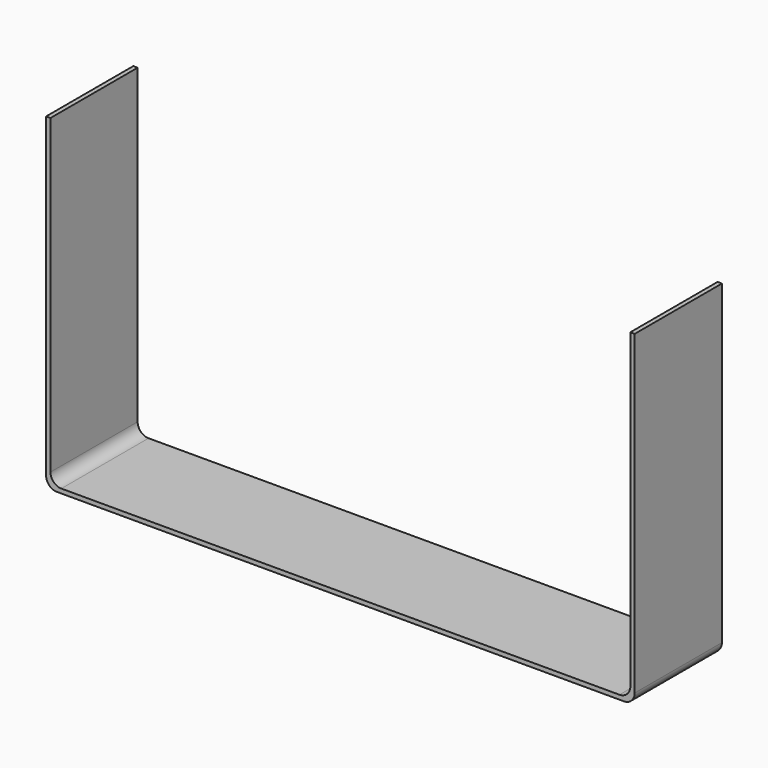
from build123d import *

# Parameters (mm, degrees)
F1_DEPTH = 50
F2_DEPTH = 25
F3_R     = 5
F4_R     = 5
F5_R     = 5
F6_R     = 5


with BuildPart() as f1:
    # F0 (on Front) → F1 (new body)
    with BuildSketch(Plane.XZ):
        Polygon((268, 2), (2, 2), (2, 150), (0, 150), (0, 0), (270, 0), (270, 150), (268, 150), align=None)
    extrude(amount=F1_DEPTH)

    # F0 (on Front) → F2 (join)
    with BuildSketch(Plane.XZ):
        Polygon((268, 2), (2, 2), (2, 150), (0, 150), (0, 0), (270, 0), (270, 150), (268, 150), align=None)
    extrude(amount=F2_DEPTH)

    # F3
    f3_edges = [f1.edges().sort_by_distance(p)[0] for p in [
        (0, -25, 0),
    ]]
    fillet(f3_edges, radius=F3_R)

    # F4
    f4_edges = [f1.edges().sort_by_distance(p)[0] for p in [
        (2, -25, 2),
    ]]
    fillet(f4_edges, radius=F4_R)

    # F5
    f5_edges = [f1.edges().sort_by_distance(p)[0] for p in [
        (270, -25, 0),
    ]]
    fillet(f5_edges, radius=F5_R)

    # F6
    f6_edges = [f1.edges().sort_by_distance(p)[0] for p in [
        (268, -25, 2),
    ]]
    fillet(f6_edges, radius=F6_R)


solid = f1.part
